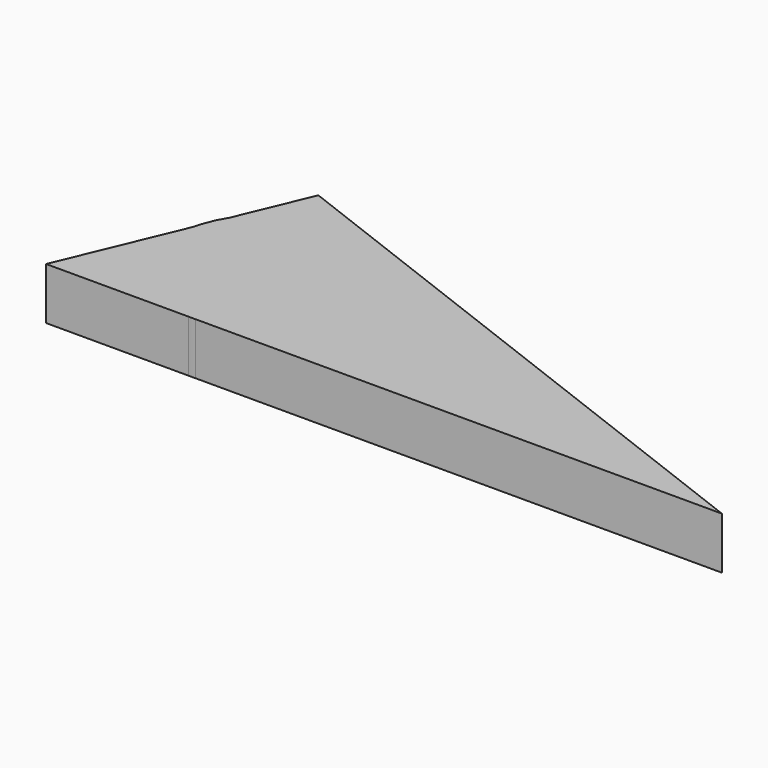
from build123d import *

# Parameters (mm, degrees)
F1_DEPTH = 25.4


with BuildPart() as f1:
    # F0 (on Top) → F1 (new body)
    with BuildSketch(Plane.XY):
        with BuildLine():
            Line((-144.4629421807, -20.8583285702), (-169.0635971189, -79.7292143106))
            Line((-169.0635971189, -79.7292143106), (-99.397652288, -79.7292143106))
            ThreePointArc((-99.397652288, -79.7292143106), (-135.8325194642, -60.9358344409), (-144.4629421807, -20.8583285702))
        make_face()
        with BuildLine():
            ThreePointArc((-144.4629421807, -20.8583285702), (-135.8325194642, -60.9358344409), (-99.397652288, -79.7292143106))
            Line((-99.397652288, -79.7292143106), (-96.0409343243, -79.7292143106))
            ThreePointArc((-96.0409343243, -79.7292143106), (-63.1911739377, -65.1015602595), (-49.7211276966, -31.7604013901))
            ThreePointArc((-49.7211276966, -31.7604013901), (-57.8224024895, -5.0759114184), (-79.3915118043, 12.6008015592))
            Line((-79.3915118043, 12.6008015592), (-81.6560506635, 13.4700765831))
            ThreePointArc((-81.6560506635, 13.4700765831), (-113.4325716452, 13.5928430994), (-138.3219876863, -6.1626454152))
            Line((-138.3219876863, -6.1626454152), (-144.4629421807, -20.8583285702))
        make_face()
        with BuildLine():
            Line((-96.0409343243, -79.7292143106), (-99.397652288, -79.7292143106))
            ThreePointArc((-99.397652288, -79.7292143106), (-97.7192933061, -79.7585669996), (-96.0409343243, -79.7292143106))
        make_face()
        with BuildLine():
            ThreePointArc((-138.3219876863, -6.1626454152), (-142.0062744162, -13.2539915266), (-144.4629421807, -20.8583285702))
            Line((-144.4629421807, -20.8583285702), (-138.3219876863, -6.1626454152))
        make_face()
        with BuildLine():
            ThreePointArc((-49.7211276966, -31.7604013901), (-63.1911739377, -65.1015602595), (-96.0409343243, -79.7292143106))
            Line((-96.0409343243, -79.7292143106), (161.1364028811, -79.7292143106))
            Line((161.1364028811, -79.7292143106), (-79.3915118043, 12.6008015592))
            ThreePointArc((-79.3915118043, 12.6008015592), (-57.8224024895, -5.0759114184), (-49.7211276966, -31.7604013901))
        make_face()
        with BuildLine():
            Line((-123.4189111152, 29.5013367108), (-138.3219876863, -6.1626454152))
            ThreePointArc((-138.3219876863, -6.1626454152), (-113.4325716452, 13.5928430994), (-81.6560506635, 13.4700765831))
            Line((-81.6560506635, 13.4700765831), (-123.4189111152, 29.5013367108))
        make_face()
        with BuildLine():
            ThreePointArc((-79.3915118043, 12.6008015592), (-80.5182891147, 13.0497465308), (-81.6560506635, 13.4700765831))
            Line((-81.6560506635, 13.4700765831), (-79.3915118043, 12.6008015592))
        make_face()
    extrude(amount=F1_DEPTH)


solid = f1.part
